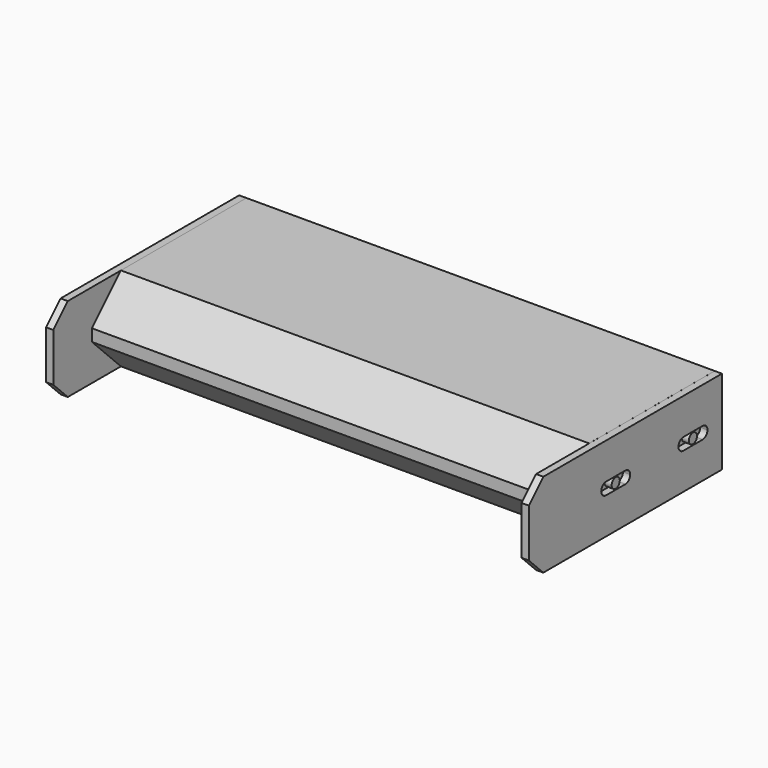
from build123d import *

# Parameters (mm, degrees)
F1_DEPTH      = 17.5
F1_DEPTH_BACK = 17.5
F2_SIZE       = 15
F3_SIZE       = 7.5
F4_R          = 2.1
F5_DEPTH      = 3
F7_DEPTH      = 0.01


with BuildPart() as f1:
    # F0 (on Top) → F1 (new body, two sides)
    with BuildSketch(Plane.XY) as f1_sk:
        Polygon((100, -50), (100, 50), (-100, 50), (-100, -50), (-97, -50), (-97, -30), (97, -30), (97, -50), align=None)
    extrude(amount=F1_DEPTH)
    extrude(f1_sk.sketch, amount=-F1_DEPTH_BACK)

    # F2
    f2_edges = [f1.edges().sort_by_distance(p)[0] for p in [
        (0, -30, 17.5),
        (0, -30, -17.5),
    ]]
    chamfer(f2_edges, length=F2_SIZE)

    # F3
    f3_edges = [f1.edges().sort_by_distance(p)[0] for p in [
        (98.5, -50, 17.5),
        (98.5, -50, -17.5),
        (-98.5, -50, 17.5),
        (-98.5, -50, -17.5),
    ]]
    chamfer(f3_edges, length=F3_SIZE)

    # F4 (on face) → F5 (cut)
    with BuildSketch(Plane.YZ.offset(100)):
        with BuildLine():
            ThreePointArc((42.5, 0), (41.767767, 1.767767), (40, 2.5))
            Line((40, 2.5), (30, 2.5))
            ThreePointArc((30, 2.5), (28.232233, 1.767767), (27.5, 0))
            ThreePointArc((27.5, 0), (28.232233, -1.767767), (30, -2.5))
            Line((30, -2.5), (40, -2.5))
            ThreePointArc((40, -2.5), (41.767767, -1.767767), (42.5, 0))
        make_face()
        with Locations((35, 0)):
            Circle(F4_R, mode=Mode.SUBTRACT)
        with BuildLine():
            ThreePointArc((2.5, 0), (1.767767, 1.767767), (0, 2.5))
            Line((0, 2.5), (-10, 2.5))
            ThreePointArc((-10, 2.5), (-11.767767, 1.767767), (-12.5, 0))
            ThreePointArc((-12.5, 0), (-11.767767, -1.767767), (-10, -2.5))
            Line((-10, -2.5), (0, -2.5))
            ThreePointArc((0, -2.5), (1.767767, -1.767767), (2.5, 0))
        make_face()
        with Locations((-5, 0)):
            Circle(F4_R, mode=Mode.SUBTRACT)
    extrude(amount=-F5_DEPTH, mode=Mode.SUBTRACT)

    # F6 (on face) → F7 (cut)
    with BuildSketch(Plane.XY.offset(17.5)):
        Polygon((100, 50), (97, 50), (97, -15), (97, -42.5), (100, -42.5), align=None)
        Polygon((-97, 50), (-100, 50), (-100, -42.5), (-97, -42.5), (-97, -15), align=None)
    extrude(amount=-F7_DEPTH, mode=Mode.SUBTRACT)


solid = f1.part
